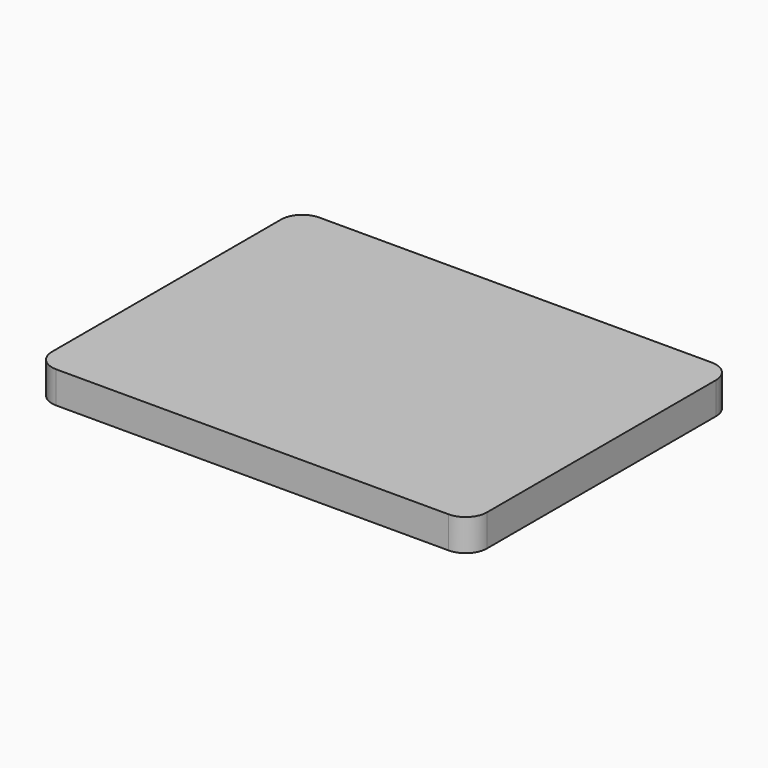
from build123d import *

# Parameters (mm, degrees)
F1_DEPTH = 7.5
F2_T     = -2


with BuildPart() as f1:
    # F0 (on Top) → F1 (new body, symmetric)
    with BuildSketch(Plane.XY):
        with BuildLine():
            Line((-92.5, -77.5), (92.5, -77.5))
            ThreePointArc((92.5, -77.5), (99.571068, -74.571068), (102.5, -67.5))
            Line((102.5, -67.5), (102.5, 67.5))
            ThreePointArc((102.5, 67.5), (99.571068, 74.571068), (92.5, 77.5))
            Line((92.5, 77.5), (-92.5, 77.5))
            ThreePointArc((-92.5, 77.5), (-99.571068, 74.571068), (-102.5, 67.5))
            Line((-102.5, 67.5), (-102.5, -67.5))
            ThreePointArc((-102.5, -67.5), (-99.571068, -74.571068), (-92.5, -77.5))
        make_face()
    extrude(amount=F1_DEPTH, both=True)

    # F2
    f2_openings = [f1.faces().sort_by_distance(p)[0] for p in [
        (0, 0, -7.5),
    ]]
    offset(amount=F2_T, openings=f2_openings)


solid = f1.part
